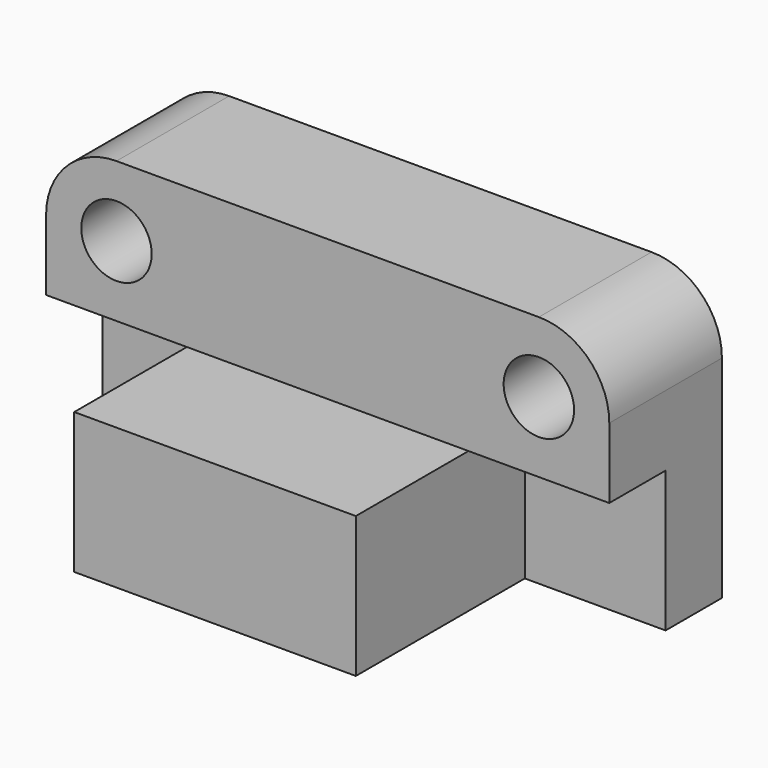
from build123d import *

# Parameters (mm, degrees)
F0_W     = 101.6
F0_H     = 50.8
F1_DEPTH = 25.4
F2_W     = 50.8
F2_H     = 50.8
F3_DEPTH = 25.4
F4_R     = 25.4
F5_R     = 25.4
F6_W     = 101.6
F6_H     = 50.8
F7_DEPTH = 50.8
F6_R     = 12.7
F8_DEPTH = 50.8


with BuildPart() as f1:
    # F0 (on Front) → F1 (new body)
    with BuildSketch(Plane.XZ):
        with Locations((0, -25.4)):
            Rectangle(F0_W, F0_H)
        Polygon((101.6, 50.8), (-101.6, 50.8), (-101.6, 0), (-50.8, 0), (50.8, 0), (101.6, 0), align=None)
    extrude(amount=F1_DEPTH)

    # F2 (on face) → F3 (join)
    with BuildSketch(Plane(origin=(0, 0, 0), x_dir=(-1, 0, 0), z_dir=(0, 1, 0))):
        with Locations((-76.2, -25.4)):
            Rectangle(F2_W, F2_H)
        Polygon((101.6, 50.8), (-101.6, 50.8), (-101.6, 0), (-50.8, 0), (-50.8, -50.8), (50.8, -50.8), (50.8, 0), (101.6, 0), align=None)
        with Locations((76.2, -25.4)):
            Rectangle(F2_W, F2_H)
        Polygon((101.6, 50.8), (-101.6, 50.8), (-101.6, 0), (-50.8, 0), (-50.8, -50.8), (50.8, -50.8), (50.8, 0), (101.6, 0), align=None)
    extrude(amount=F3_DEPTH)

    # F4
    f4_edges = [f1.edges().sort_by_distance(p)[0] for p in [
        (101.6, 0, 50.8),
    ]]
    fillet(f4_edges, radius=F4_R)

    # F5
    f5_edges = [f1.edges().sort_by_distance(p)[0] for p in [
        (-101.6, 0, 50.8),
    ]]
    fillet(f5_edges, radius=F5_R)

    # F6 (on face) → F7 (join)
    with BuildSketch(Plane.XZ.offset(25.4)):
        with Locations((0, -25.4)):
            Rectangle(F6_W, F6_H)
    extrude(amount=F7_DEPTH)

    # F6 (on face) → F8 (cut, through all)
    with BuildSketch(Plane.XZ.offset(25.4)):
        with Locations((-76.2, 25.4)):
            Circle(F6_R)
        with Locations((76.2, 25.4)):
            Circle(F6_R)
    extrude(amount=-F8_DEPTH, mode=Mode.SUBTRACT)


solid = f1.part
